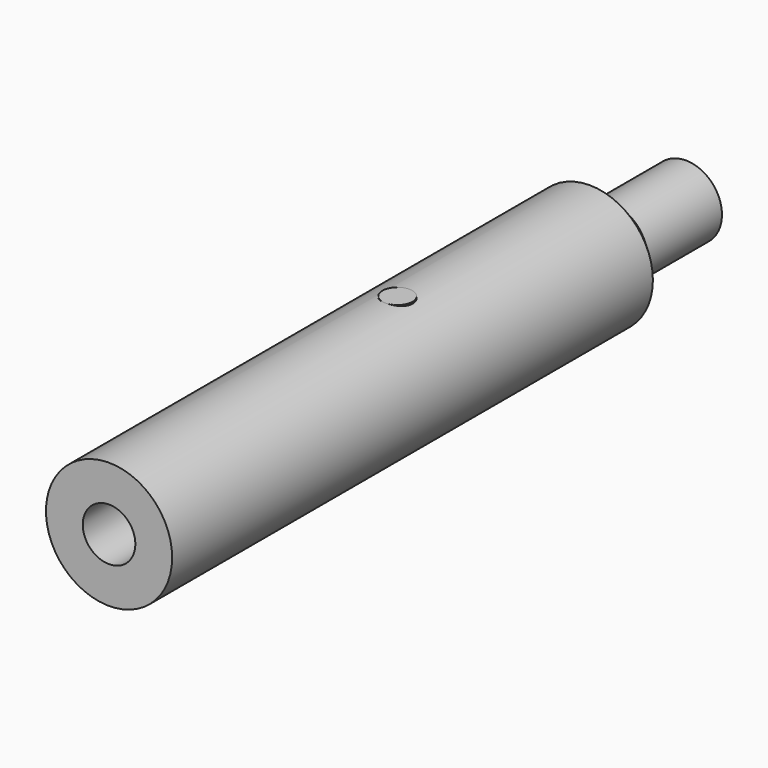
from build123d import *

# Parameters (mm, degrees)
F0_R      = 53.34
F0_R_2    = 22.225
F1_DEPTH  = 304.8
F4_R      = 53.34
F4_R_2    = 30.48
F5_DEPTH  = 101.6
F10_R     = 12.7
F10_R_2   = 8.89
F10_R_3   = 3.175
F11_DEPTH = 15.24
F12_DEPTH = 27.94
F13_DEPTH = 32.3429548439
F14_R     = 12.7
F14_R_2   = 8.89
F14_R_3   = 3.175
F15_DEPTH = 15.24
F16_DEPTH = 27.94
F17_DEPTH = 32.3429548439
F18_R     = 12.7
F19_DEPTH = 15.24
F20_R     = 12.7
F21_DEPTH = 15.24


with BuildPart() as f1:
    # F0 (on Front) → F1 (new body, symmetric)
    with BuildSketch(Plane.XZ):
        Circle(F0_R)
        Circle(F0_R_2, mode=Mode.SUBTRACT)
    extrude(amount=F1_DEPTH, both=True)

    # F4 (on offset) → F5 (cut)
    with BuildSketch(Plane(origin=(0, 304.8, 0), x_dir=(-1, 0, 0), z_dir=(0, 1, 0))):
        Circle(F4_R)
        Circle(F4_R_2, mode=Mode.SUBTRACT)
    extrude(amount=-F5_DEPTH, mode=Mode.SUBTRACT)

    # F6 (on Right) → F7 (revolve)
    with BuildSketch(Plane.YZ):
        Polygon((203.2, 53.34), (203.2, 30.48), (226.06, 30.48), align=None)
    revolve(axis=Axis((0, 101.6, 0), (0, 1, 0)))

    # F10 (on offset) → F11 (cut)
    with BuildSketch(Plane.XY.offset(53.34)):
        Circle(F10_R)
        Circle(F10_R_2, mode=Mode.SUBTRACT)
        Circle(F10_R_2)
        Circle(F10_R_3, mode=Mode.SUBTRACT)
        Circle(F10_R_3)
    extrude(amount=-F11_DEPTH, mode=Mode.SUBTRACT)

    # F10 (on offset) → F12 (cut)
    with BuildSketch(Plane.XY.offset(53.34)):
        Circle(F10_R_2)
        Circle(F10_R_3, mode=Mode.SUBTRACT)
        Circle(F10_R_3)
    extrude(amount=-F12_DEPTH, mode=Mode.SUBTRACT)

    # F10 (on offset) → F13 (cut, up to face)
    with BuildSketch(Plane.XY.offset(53.34)):
        Circle(F10_R_3)
    extrude(amount=-F13_DEPTH, mode=Mode.SUBTRACT)

    # F14 (on offset) → F15 (cut)
    with BuildSketch(Plane.XY.offset(-53.34)):
        Circle(F14_R)
        Circle(F14_R_2, mode=Mode.SUBTRACT)
        Circle(F14_R_2)
        Circle(F14_R_3, mode=Mode.SUBTRACT)
        Circle(F14_R_3)
    extrude(amount=F15_DEPTH, mode=Mode.SUBTRACT)

    # F14 (on offset) → F16 (cut)
    with BuildSketch(Plane.XY.offset(-53.34)):
        Circle(F14_R_2)
        Circle(F14_R_3, mode=Mode.SUBTRACT)
        Circle(F14_R_3)
    extrude(amount=F16_DEPTH, mode=Mode.SUBTRACT)

    # F14 (on offset) → F17 (cut, up to face)
    with BuildSketch(Plane.XY.offset(-53.34)):
        Circle(F14_R_3)
    extrude(amount=F17_DEPTH, mode=Mode.SUBTRACT)

    # F18 (on offset) → F19 (join, through all)
    with BuildSketch(Plane.XY.offset(53.34)):
        Circle(F18_R)
    extrude(amount=-F19_DEPTH)

    # F20 (on offset) → F21 (join, through all)
    with BuildSketch(Plane.XY.offset(-53.34)):
        Circle(F20_R)
    extrude(amount=F21_DEPTH)


solid = f1.part
